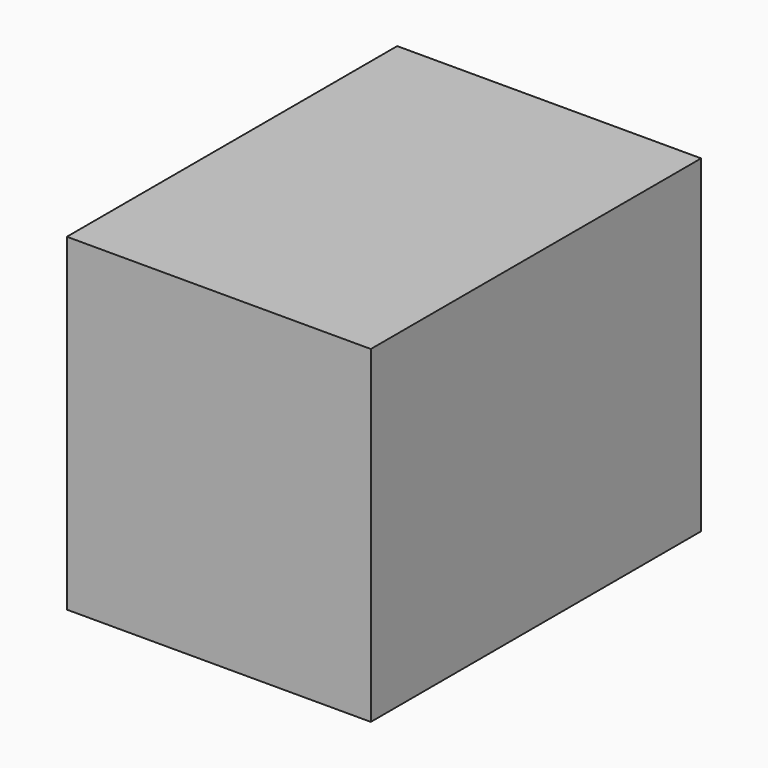
from build123d import *

# Parameters (mm, degrees)
F0_W     = 56.0941062868
F0_H     = 60.5884306133
F1_DEPTH = 76.2
F2_R     = 7.0764642194
F3_DEPTH = 12.7
F4_DEPTH = 12.7


with BuildPart() as f1:
    # F0 (on Front) → F1 (new body)
    with BuildSketch(Plane.XZ):
        with Locations((-38.5946650058, 30.2942153066)):
            Rectangle(F0_W, F0_H)
    extrude(amount=F1_DEPTH)

    # F2 (on face) → F3 (join)
    with BuildSketch(Plane.XZ.offset(76.2)):
        with Locations((-24.6596988291, 47.5771352649)):
            Circle(F2_R)
    extrude(amount=F3_DEPTH)

    # F4 (cut): faces of the model
    f4_faces = [f1.faces().sort_by_distance(p)[0] for p in [
        (-24.6596988291, -88.9, 47.5771352649),
        (-38.5946650058, 0, 30.2942153066),
    ]]
    extrude(f4_faces, amount=-F4_DEPTH, dir=(0, -1, 0), mode=Mode.SUBTRACT)


solid = f1.part
